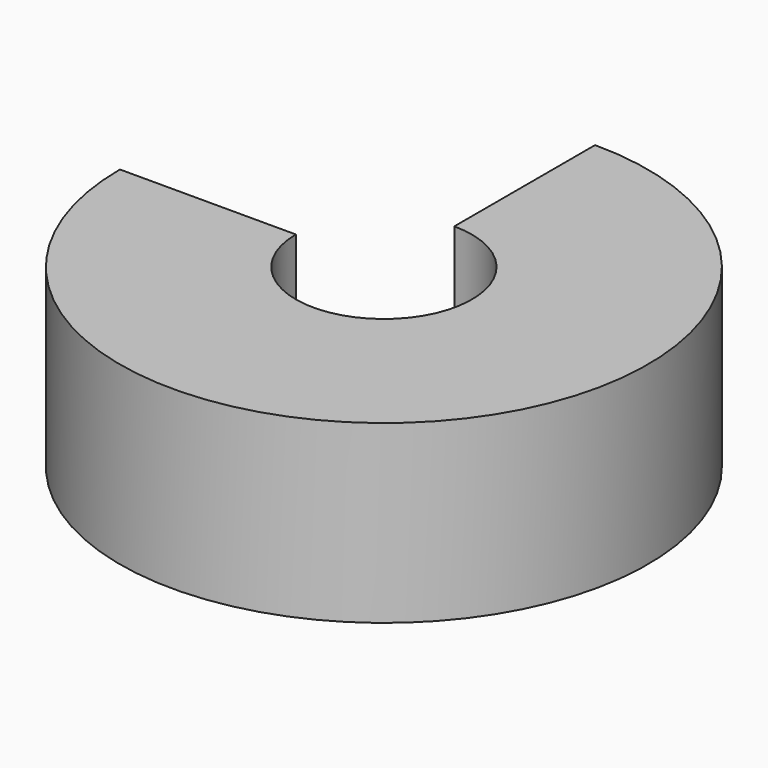
from build123d import *

# Parameters (mm, degrees)
F0_R     = 76.2
F0_R_2   = 25.4
F1_DEPTH = 50.8
F2_W     = 76.2
F2_H     = 76.2
F3_DEPTH = 50.801


with BuildPart() as f1:
    # F0 (on Top) → F1 (new body)
    with BuildSketch(Plane.XY):
        Circle(F0_R)
        Circle(F0_R_2, mode=Mode.SUBTRACT)
    extrude(amount=F1_DEPTH)

    # F2 (on face) → F3 (cut, through all)
    with BuildSketch(Plane.XY.offset(50.8)):
        with Locations((-38.1, 38.1)):
            Rectangle(F2_W, F2_H)
    extrude(amount=-F3_DEPTH, mode=Mode.SUBTRACT)


solid = f1.part
